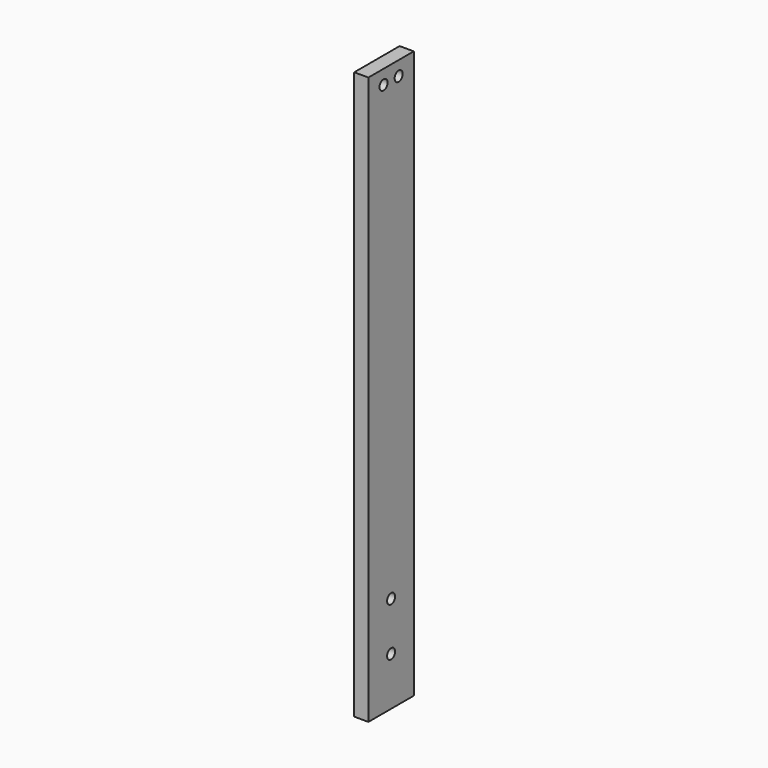
from build123d import *

# Parameters (mm, degrees)
F0_W     = 25.4
F0_H     = 254
F1_DEPTH = 6.35
F3_D     = 4.4958
F5_D     = 4.4958


with BuildPart() as f1:
    # F0 (on Right) → F1 (new body)
    with BuildSketch(Plane.YZ):
        with Locations((12.7, 127)):
            Rectangle(F0_W, F0_H)
    extrude(amount=-F1_DEPTH)

    # F3 (through all)
    with Locations(Plane.YZ):
        with Locations((8.46666582, 247.65), (16.93333418, 247.65)):
            Hole(F3_D / 2)

    # F5 (through all)
    with Locations(Plane.YZ):
        with Locations((12.7, 43.391666328), (12.7, 21.695833164)):
            Hole(F5_D / 2)


solid = f1.part
